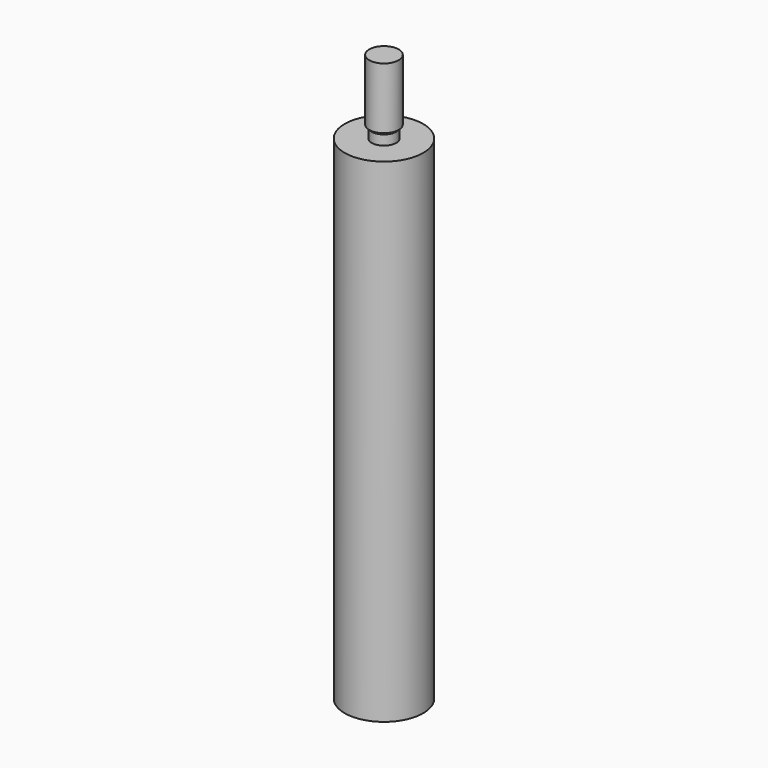
from build123d import *

# Parameters (mm, degrees)
F3_D     = 5
F3_DEPTH = 15
F3_TIP   = 1.5021515476


with BuildPart() as f1:
    # F0 (on Front) → F1 (revolve)
    with BuildSketch(Plane.XZ):
        Polygon((0, -100.5), (0, 15), (-3, 15), (-3, 2.5), (-2.5, 2), (-2.5, 0), (-8, 0), (-8, -100.5), align=None)
    revolve(axis=Axis((0, 0, -38.1619408727), (0, 0, -1)))

    # F3
    with Locations(Plane(origin=(0, 0, -100.5), x_dir=(1, 0, 0), z_dir=(0, 0, -1))):
        with Locations((0, 0)):
            Hole(F3_D / 2, depth=F3_DEPTH)
            with Locations((0, 0, -(F3_DEPTH + F3_TIP / 2))):  # 118° drill point
                Cone(0, F3_D / 2, F3_TIP, mode=Mode.SUBTRACT)


solid = f1.part
